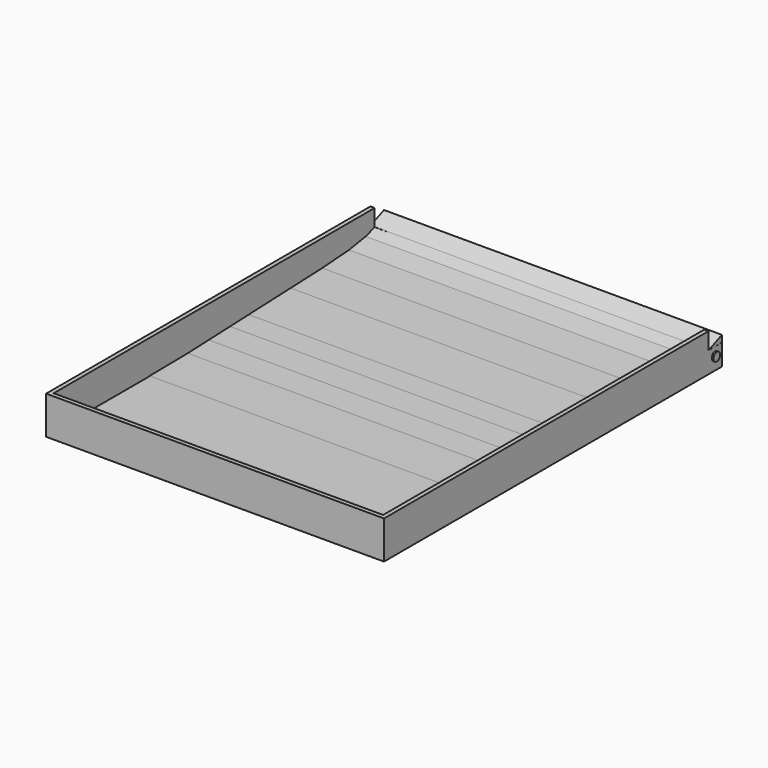
from build123d import *

# Parameters (mm, degrees)
F0_W          = 508
F0_H          = 635
F1_DEPTH      = 6.35
F2_W          = 25.4
F2_H          = 31.75
F3_DEPTH      = 25.4
F4_W          = 25.4
F4_H          = 31.75
F5_DEPTH      = 25.4
F6_R          = 6.35
F7_DEPTH      = 2.54
F7_DEPTH_BACK = 510.54
F9_DEPTH      = 254
F9_DEPTH_BACK = 254
F10_W         = 6.35
F10_H         = 6.35
F10_W_2       = 495.3
F10_H_2       = 603.25
F11_DEPTH     = 57.15


with BuildPart() as f1:
    # F0 (on Top) → F1 (new body)
    with BuildSketch(Plane.XY):
        Rectangle(F0_W, F0_H)
    extrude(amount=F1_DEPTH)

    # F2 (on face) → F3 (join)
    with BuildSketch(Plane.YZ.offset(254)):
        with Locations((304.8, 15.875)):
            Rectangle(F2_W, F2_H)
    extrude(amount=-F3_DEPTH)

    # F4 (on face) → F5 (join)
    with BuildSketch(Plane(origin=(-254, 0, 0), x_dir=(0, -1, 0), z_dir=(-1, 0, 0))):
        with Locations((-304.8, 15.875)):
            Rectangle(F4_W, F4_H)
    extrude(amount=-F5_DEPTH)

    # F6 (on face) → F7 (join, two sides)
    with BuildSketch(Plane.YZ.offset(254)) as f7_sk:
        with Locations((304.8, 19.05)):
            Circle(F6_R)
    extrude(amount=F7_DEPTH)
    extrude(f7_sk.sketch, amount=-F7_DEPTH_BACK)

    # F8 (on Right) → F9 (join, two sides)
    with BuildSketch(Plane.YZ) as f9_sk:
        Polygon((-59.114292, 7.670393), (-130.770952, 6.794375), (292.277932, 6.794375), (292.644948, 31.810883), (275.124073, 26.359947), (243.846089, 21.16858), (193.380921, 17.69941), (134.050472, 15.342826), (55.370512, 12.217687), (20.214967, 10.821322), (-19.836184, 9.230505), align=None)
        Polygon((317.424387, 42.087749), (292.644948, 31.810883), (317.443877, 31.810883), align=None)
    extrude(amount=F9_DEPTH)
    extrude(f9_sk.sketch, amount=-F9_DEPTH_BACK)

    # F10 (on face) → F11 (join)
    with BuildSketch(Plane(origin=(0, 0, 0), x_dir=(1, 0, 0), z_dir=(0, 0, -1))):
        with Locations((-250.825, 314.325)):
            Rectangle(F10_W, F10_H)
        with Locations((0, 314.325)):
            Rectangle(F10_W_2, F10_H)
        with Locations((-250.825, 9.525)):
            Rectangle(F10_W, F10_H_2)
        with Locations((250.825, 314.325)):
            Rectangle(F10_W, F10_H)
        with Locations((250.825, 9.525)):
            Rectangle(F10_W, F10_H_2)
    extrude(amount=-F11_DEPTH)


solid = f1.part
